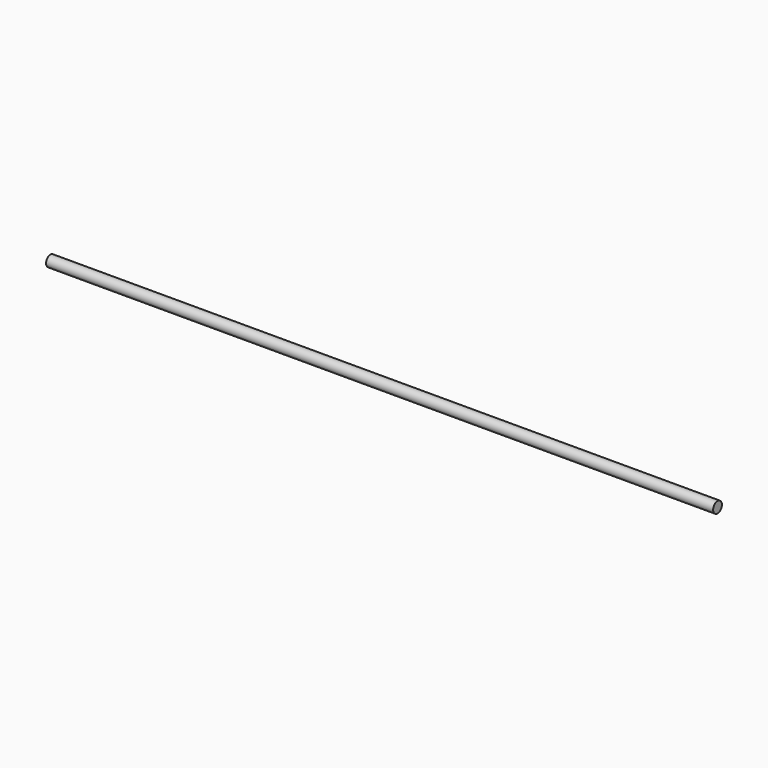
from build123d import *

# Parameters (mm, degrees)
SKETCH_R  = 3
PAD_DEPTH = 182.5


with BuildPart() as part:
    # Sketch → Pad (new body, symmetric)
    with BuildSketch(Plane.YZ):
        Circle(SKETCH_R)
    extrude(amount=PAD_DEPTH, both=True)


solid = part.part
